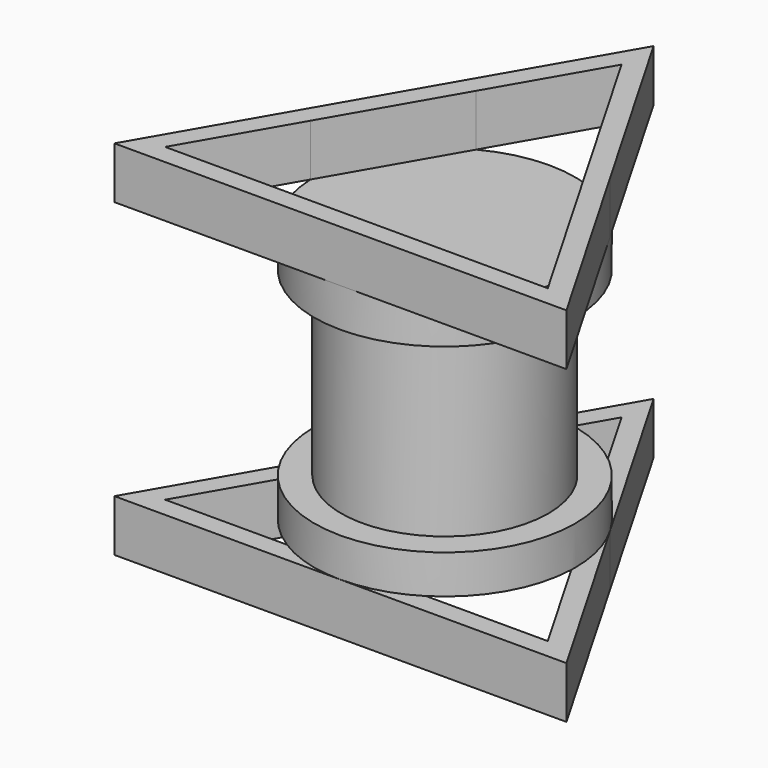
from build123d import *

# Parameters (mm, degrees)
F0_R     = 4
F1_DEPTH = 3.5
F2_R     = 5.0416218024
F2_R_2   = 4
F3_DEPTH = 1.5
F5_DEPTH = 2


with BuildPart() as f1:
    # F0 (on Top) → F1 (new body)
    with BuildSketch(Plane.XY):
        Circle(F0_R)
    extrude(amount=F1_DEPTH)

    # F2 (on face) → F3 (join)
    with BuildSketch(Plane.XY.offset(3.5)):
        Circle(F2_R)
        Circle(F2_R_2, mode=Mode.SUBTRACT)
        Circle(F2_R_2)
    extrude(amount=F3_DEPTH)

    # F4 (on face) → F5 (join)
    with BuildSketch(Plane.XY.offset(5)):
        with BuildLine():
            ThreePointArc((-2.3542444359, 4.4581928553), (-3.4970506358, 3.6316094571), (-4.3661725175, 2.5208109698))
            ThreePointArc((-4.3661725175, 2.5208109698), (-4.8935913453, 1.2127300373), (-5.0380304856, -0.1902609394))
            Line((-5.0380304856, -0.1902609394), (-2.3542444359, 4.4581928553))
        make_face()
        with BuildLine():
            ThreePointArc((-2.6837860497, -4.2679319158), (-1.3965406905, -4.8443394285), (0, -5.0416218024))
            ThreePointArc((0, -5.0416218024), (1.3965406905, -4.8443394285), (2.6837860497, -4.2679319158))
            Line((2.6837860497, -4.2679319158), (-2.6837860497, -4.2679319158))
        make_face()
        with BuildLine():
            ThreePointArc((5.0416218024, 0), (4.8698327257, 1.3048676647), (4.3661726358, 2.5208107651))
            ThreePointArc((4.3661726358, 2.5208107651), (3.497050721, 3.6316093751), (2.3542444359, 4.4581928553))
            Line((2.3542444359, 4.4581928553), (5.0380304856, -0.1902609394))
            ThreePointArc((5.0380304856, -0.1902609394), (5.0407238932, -0.0951474154), (5.0416218024, 0))
        make_face()
        with BuildLine():
            ThreePointArc((2.3542444359, 4.4581928553), (3.497050721, 3.6316093751), (4.3661726358, 2.5208107651))
            Line((4.3661726358, 2.5208107651), (0, 10.0832436048))
            Line((0, 10.0832436048), (-4.3661725175, 2.5208109698))
            ThreePointArc((-4.3661725175, 2.5208109698), (-3.4970506358, 3.6316094571), (-2.3542444359, 4.4581928553))
            Line((-2.3542444359, 4.4581928553), (0, 8.5358638316))
            Line((0, 8.5358638316), (2.3542444359, 4.4581928553))
        make_face()
        with BuildLine():
            Line((-8.7323451143, -5.0416218024), (0, -5.0416218024))
            ThreePointArc((0, -5.0416218024), (-1.3965406905, -4.8443394285), (-2.6837860497, -4.2679319158))
            Line((-2.6837860497, -4.2679319158), (-7.3922749214, -4.2679319158))
            Line((-7.3922749214, -4.2679319158), (-5.0380304856, -0.1902609394))
            ThreePointArc((-5.0380304856, -0.1902609394), (-4.8935913453, 1.2127300373), (-4.3661725175, 2.5208109698))
            Line((-4.3661725175, 2.5208109698), (-8.7323451143, -5.0416218024))
        make_face()
        with BuildLine():
            Line((0, -5.0416218024), (8.7323451143, -5.0416218024))
            Line((8.7323451143, -5.0416218024), (4.3661726358, 2.5208107651))
            ThreePointArc((4.3661726358, 2.5208107651), (4.8698327257, 1.3048676647), (5.0416218024, 0))
            ThreePointArc((5.0416218024, 0), (5.0407238932, -0.0951474154), (5.0380304856, -0.1902609394))
            Line((5.0380304856, -0.1902609394), (7.3922749214, -4.2679319158))
            Line((7.3922749214, -4.2679319158), (2.6837860497, -4.2679319158))
            ThreePointArc((2.6837860497, -4.2679319158), (1.3965406905, -4.8443394285), (0, -5.0416218024))
        make_face()
    extrude(amount=F5_DEPTH)

    # F6: F1 across plane


with BuildPart() as f1_1:
    add(f1.part)
    add(f1.part.mirror(Plane.XY))


solid = f1_1.part
